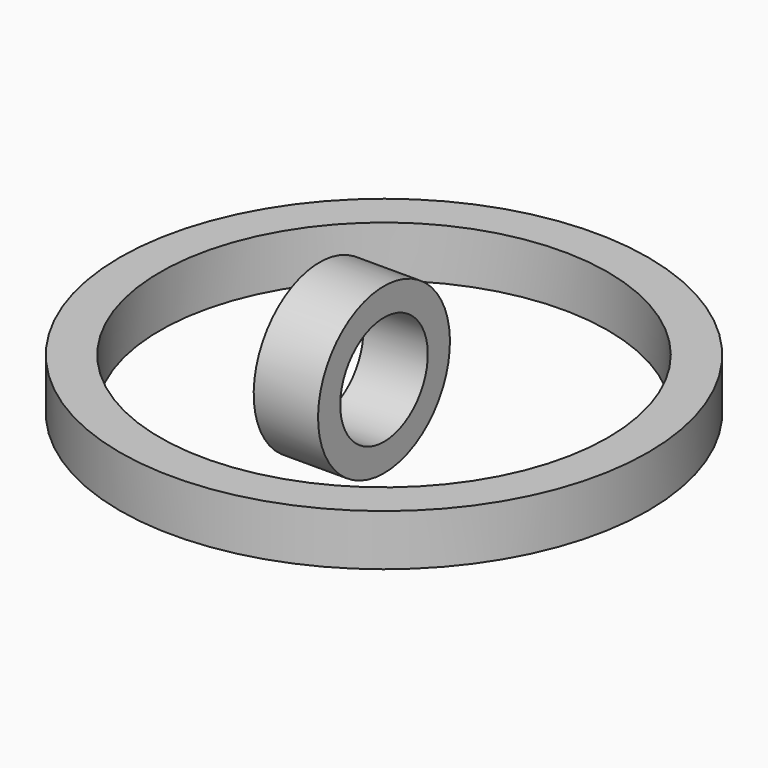
from build123d import *

# Parameters (mm, degrees)
F0_R     = 18.046651
F0_R_2   = 15.302747
F1_DEPTH = 3.5
F2_R     = 5.630678
F2_R_2   = 3.738001
F3_DEPTH = 4.4
F4_ANGLE = 30


with BuildPart() as f1:
    # F0 (on Top) → F1 (new body)
    with BuildSketch(Plane.XY):
        Circle(F0_R)
        Circle(F0_R_2, mode=Mode.SUBTRACT)
    extrude(amount=F1_DEPTH)


with BuildPart() as f3:
    # F2 (on Right) → F3 (new body)
    with BuildSketch(Plane.YZ):
        with Locations((0, 2.0125)):
            Circle(F2_R)
        with Locations((0, 2.0125)):
            Circle(F2_R_2, mode=Mode.SUBTRACT)
    extrude(amount=-F3_DEPTH)


with BuildPart() as f3_1:
    # F4: moved
    add(f3.part.rotate(Axis((0, 0, 2.0125), (1, 0, 0)), F4_ANGLE))


solid = Compound([f1.part, f3_1.part])
